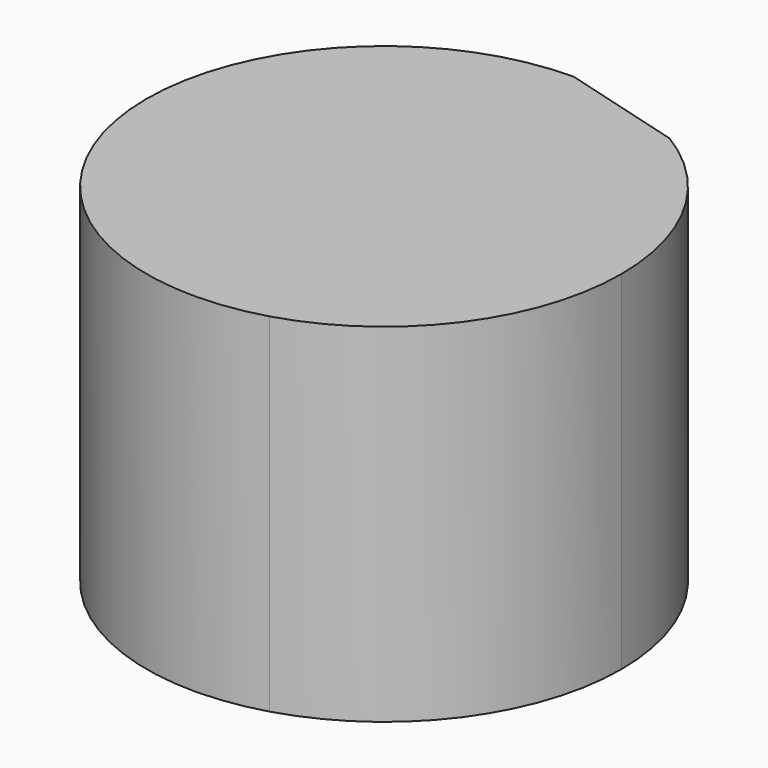
from build123d import *

# Parameters (mm, degrees)
F1_DEPTH = 25.4


with BuildPart() as f1:
    # F0 (on Top) → F1 (new body)
    with BuildSketch(Plane.XY):
        with BuildLine():
            Line((9.019706, 14.79441), (0, 17.327136))
            ThreePointArc((0, 17.327136), (-17.147137, -2.491055), (4.930354, -16.610878))
            ThreePointArc((4.930354, -16.610878), (13.886298, -10.363415), (17.327136, 0))
            ThreePointArc((17.327136, 0), (15.108198, 8.483631), (9.019706, 14.79441))
        make_face()
    extrude(amount=F1_DEPTH)


solid = f1.part
